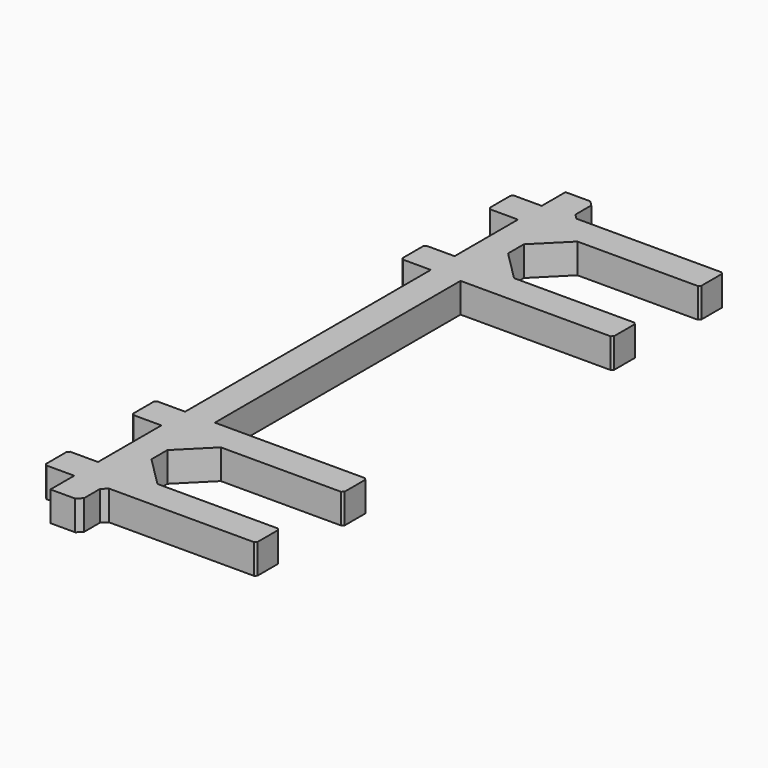
from build123d import *

# Parameters (mm, degrees)
F1_DEPTH = 3


with BuildPart() as f1:
    # F0 (on Top) → F1 (new body)
    with BuildSketch(Plane.XY):
        Polygon((-4.675, 23.5), (-1.675, 26.5), (10.475, 26.5), (10.675, 26.7), (10.675, 29.3), (10.475, 29.5), (-4.175, 29.5), (-4.675, 30), (-4.675, 32), (-5.175, 32.5), (-7.675, 32.5), (-7.675, 29.5), (-10.475, 29.5), (-10.675, 29.3), (-10.675, 26.7), (-10.475, 26.5), (-7.675, 26.5), (-7.675, 18.5), (-10.475, 18.5), (-10.675, 18.3), (-10.675, 15.7), (-10.475, 15.5), (-7.675, 15.5), (-7.675, -15.5), (-10.475, -15.5), (-10.675, -15.7), (-10.675, -18.3), (-10.475, -18.5), (-7.675, -18.5), (-7.675, -26.5), (-10.475, -26.5), (-10.675, -26.7), (-10.675, -29.3), (-10.475, -29.5), (-7.675, -29.5), (-7.675, -32.5), (-5.175, -32.5), (-4.675, -32), (-4.675, -30), (-4.175, -29.5), (10.475, -29.5), (10.675, -29.3), (10.675, -26.7), (10.475, -26.5), (-1.675, -26.5), (-4.675, -23.5), (-4.675, -21.5), (-1.675, -18.5), (10.475, -18.5), (10.675, -18.3), (10.675, -15.7), (10.475, -15.5), (-4.675, -15.5), (-4.675, 15.5), (10.475, 15.5), (10.675, 15.7), (10.675, 18.3), (10.475, 18.5), (-1.675, 18.5), (-4.675, 21.5), align=None)
    extrude(amount=F1_DEPTH)


solid = f1.part
